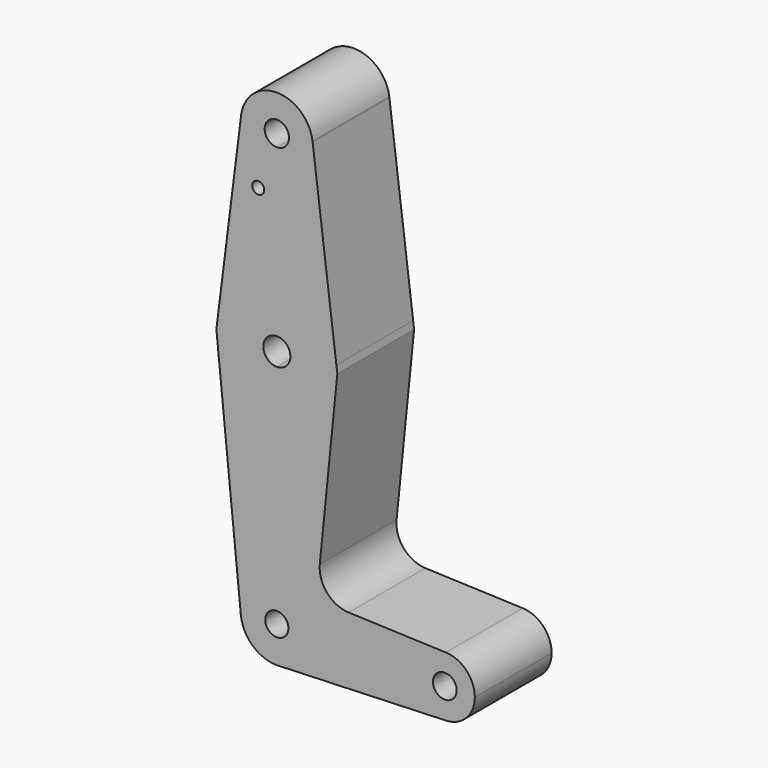
from build123d import *

# Parameters (mm, degrees)
F0_R     = 1.5875
F1_DEPTH = 25.4


with BuildPart() as f1:
    # F0 (on Front) → F1 (new body)
    with BuildSketch(Plane.XZ):
        with BuildLine():
            ThreePointArc((9.525, 50.8), (6.7351920908, 44.0648079092), (0, 41.275))
            Line((0, 41.275), (0, 15.875))
            ThreePointArc((0, 15.875), (10.500263397, 11.9063047833), (15.7504675666, 1.9845393503))
            Line((15.7504675666, 1.9845393503), (9.4622685099, 51.8913751176))
            ThreePointArc((9.4622685099, 51.8913751176), (9.5093041953, 51.3465882562), (9.525, 50.8))
        make_face()
        with BuildLine():
            Line((0, 15.875), (0, 41.275))
            ThreePointArc((0, 41.275), (-7.0608217366, 44.4070021583), (-9.4781770336, 51.7432842197))
            Line((-9.4781770336, 51.7432842197), (-15.7503596183, 1.9853959035))
            ThreePointArc((-15.7503596183, 1.9853959035), (-10.4999396434, 11.9065902963), (0, 15.875))
        make_face()
        with Locations((-4.9275723286, 36.5252)):
            Circle(F0_R, mode=Mode.SUBTRACT)
        with BuildLine():
            ThreePointArc((15.7504675666, 1.9845393503), (10.500263397, 11.9063047833), (0, 15.875))
            Line((0, 15.875), (0, 3.5818445827))
            ThreePointArc((0, 3.5818445827), (2.5327465936, 2.5327465936), (3.5818445827, 0))
            ThreePointArc((3.5818445827, 0), (2.5327465936, -2.5327465936), (0, -3.5818445827))
            Line((0, -3.5818445827), (0, -15.875))
            ThreePointArc((0, -15.875), (11.2253201513, -11.2253201513), (15.875, 0))
            ThreePointArc((15.875, 0), (15.8438363034, 0.9942213988), (15.7504675666, 1.9845393503))
        make_face()
        with BuildLine():
            Line((0, 3.5818445827), (0, 15.875))
            ThreePointArc((0, 15.875), (-10.4999396434, 11.9065902963), (-15.7503596183, 1.9853959035))
            ThreePointArc((-15.7503596183, 1.9853959035), (-11.9065902963, -10.4999396434), (0, -15.875))
            Line((0, -15.875), (0, -3.5818445827))
            ThreePointArc((0, -3.5818445827), (-3.5818445827, 0), (0, 3.5818445827))
        make_face()
        with BuildLine():
            ThreePointArc((0, -15.875), (-11.9065902963, -10.4999396434), (-15.7503596183, 1.9853959035))
            Line((-15.7503596183, 1.9853959035), (-16.0006267826, 0))
            Line((-16.0006267826, 0), (-9.5283009961, -64.4567694559))
            ThreePointArc((-9.5283009961, -64.4567694559), (-7.1016251441, -57.0757609029), (0, -53.923783228))
            Line((0, -53.923783228), (0, -15.875))
        make_face()
        with BuildLine():
            Line((16.0005170494, 0), (15.7504675666, 1.9845393503))
            ThreePointArc((15.7504675666, 1.9845393503), (15.8438363034, 0.9942213988), (15.875, 0))
            ThreePointArc((15.875, 0), (11.2253201513, -11.2253201513), (0, -15.875))
            Line((0, -15.875), (0, -53.923783228))
            ThreePointArc((0, -53.923783228), (6.7714078176, -56.7285921824), (9.576216772, -63.5))
            Line((9.576216772, -63.5), (36.5125, -63.5))
            ThreePointArc((36.5125, -63.5), (38.9413556042, -57.7852171371), (44.7414746571, -55.5678534573))
            Line((44.7414746571, -55.5678534573), (18.9771161719, -54.6211163395))
            ThreePointArc((18.9771161719, -54.6211163395), (13.2743662579, -51.8982857051), (11.3592341777, -45.876040911))
            Line((11.3592341777, -45.876040911), (16.0005170494, 0))
        make_face()
        with BuildLine():
            Line((36.5125, -63.5), (9.576216772, -63.5))
            ThreePointArc((9.576216772, -63.5), (7.0154951661, -70.0181864992), (0.7028263194, -73.050390716))
            Line((0.7028263194, -73.050390716), (44.7414746571, -71.4321465427))
            ThreePointArc((44.7414746571, -71.4321465427), (38.9413556042, -69.2147828629), (36.5125, -63.5))
        make_face()
        with BuildLine():
            ThreePointArc((-9.4781770336, 51.7432842197), (-7.0608217366, 44.4070021583), (0, 41.275))
            ThreePointArc((0, 41.275), (6.7351920908, 44.0648079092), (9.525, 50.8))
            ThreePointArc((9.525, 50.8), (9.5093041953, 51.3465882562), (9.4622685099, 51.8913751176))
            Line((9.4622685099, 51.8913751176), (9.4372495094, 52.089940579))
            ThreePointArc((9.4372495094, 52.089940579), (0.0749897766, 60.3247048003), (-9.4157689808, 52.2383739084))
            Line((-9.4157689808, 52.2383739084), (-9.4781770336, 51.7432842197))
        make_face()
        with BuildLine():
            ThreePointArc((3.2273454684, 50.8), (2.282077866, 48.517922134), (0, 47.5726545316))
            ThreePointArc((0, 47.5726545316), (-2.282077866, 53.082077866), (3.2273454684, 50.8))
        make_face(mode=Mode.SUBTRACT)
        with BuildLine():
            Line((0, -60.4259204753), (0, -53.923783228))
            ThreePointArc((0, -53.923783228), (-7.1016251441, -57.0757609029), (-9.5283009961, -64.4567694559))
            ThreePointArc((-9.5283009961, -64.4567694559), (-6.4242390971, -70.6016251441), (0, -73.076216772))
            Line((0, -73.076216772), (0.7028263194, -73.050390716))
            ThreePointArc((0.7028263194, -73.050390716), (7.0154951661, -70.0181864992), (9.576216772, -63.5))
            Line((9.576216772, -63.5), (3.0740795247, -63.5))
            ThreePointArc((3.0740795247, -63.5), (-2.1737024778, -65.6737024778), (0, -60.4259204753))
        make_face()
        with BuildLine():
            ThreePointArc((9.576216772, -63.5), (6.7714078176, -56.7285921824), (0, -53.923783228))
            Line((0, -53.923783228), (0, -60.4259204753))
            ThreePointArc((0, -60.4259204753), (2.1737024778, -61.3262975222), (3.0740795247, -63.5))
            Line((3.0740795247, -63.5), (9.576216772, -63.5))
        make_face()
        with BuildLine():
            ThreePointArc((52.3875, -63.5), (50.1647828629, -57.9913556042), (44.7414746571, -55.5678534573))
            ThreePointArc((44.7414746571, -55.5678534573), (38.9413556042, -57.7852171371), (36.5125, -63.5))
            ThreePointArc((36.5125, -63.5), (38.9413556042, -69.2147828629), (44.7414746571, -71.4321465427))
            ThreePointArc((44.7414746571, -71.4321465427), (50.1647828629, -69.0086443958), (52.3875, -63.5))
        make_face()
        with BuildLine():
            ThreePointArc((47.5920096932, -63.5), (44.45, -66.6420096932), (41.3079903068, -63.5))
            ThreePointArc((41.3079903068, -63.5), (44.45, -60.3579903068), (47.5920096932, -63.5))
        make_face(mode=Mode.SUBTRACT)
    extrude(amount=F1_DEPTH)


solid = f1.part
